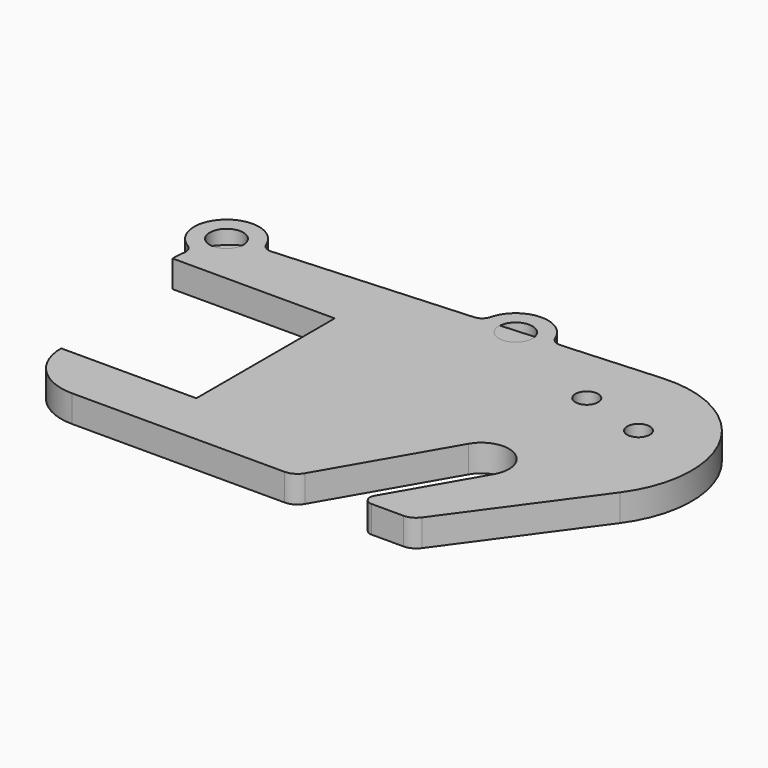
from build123d import *

# Parameters (mm, degrees)
F0_R     = 2.1
F1_DEPTH = 5
F2_R     = 3.1
F2_R_2   = 2.1
F3_DEPTH = 5


with BuildPart() as f1:
    # F0 (on Top) → F1 (new body)
    with BuildSketch(Plane.XY):
        with BuildLine():
            Line((-55, 17), (-25, 17))
            Line((-25, 17), (-25, -15))
            Line((-25, -15), (-50, -15))
            ThreePointArc((-50, -15), (-47.071068, -22.071068), (-40, -25))
            Line((-40, -25), (-0.687644, -25))
            ThreePointArc((-0.687644, -25), (0.812356, -24.598076), (1.910432, -23.5))
            Line((1.910432, -23.5), (14.58327, -1.55))
            ThreePointArc((14.58327, -1.55), (21.55, 0.31673), (23.41673, -6.65))
            Line((23.41673, -6.65), (14.12139, -22.75))
            ThreePointArc((14.12139, -22.75), (14.12139, -24.25), (15.420428, -25))
            Line((15.420428, -25), (21.294605, -25))
            ThreePointArc((21.294605, -25), (22.65599, -24.673318), (23.720882, -23.764421))
            Line((23.720882, -23.764421), (41.175178, 0.237193))
            ThreePointArc((41.175178, 0.237193), (42.52786, 21.631933), (23.742581, 31.960433))
            Line((23.742581, 31.960433), (-45.628709, 27.59035))
            ThreePointArc((-45.628709, 27.59035), (-52.289962, 24.45531), (-55, 17.610133))
            Line((-55, 17.610133), (-55, 17))
        make_face()
        with Locations((31.182091, 17)):
            Circle(F0_R, mode=Mode.SUBTRACT)
        with Locations((19, 20.264181)):
            Circle(F0_R, mode=Mode.SUBTRACT)
    extrude(amount=F1_DEPTH)


with BuildPart() as f3:
    # F2 (on Top) → F3 (new body)
    with BuildSketch(Plane.XY):
        with BuildLine():
            Line((-55, 17), (-25, 17))
            Line((-25, 17), (-25, -15))
            Line((-25, -15), (-50, -15))
            ThreePointArc((-50, -15), (-47.071068, -22.071068), (-40, -25))
            Line((-40, -25), (-0.687644, -25))
            ThreePointArc((-0.687644, -25), (0.812356, -24.598076), (1.910432, -23.5))
            Line((1.910432, -23.5), (14.58327, -1.55))
            ThreePointArc((14.58327, -1.55), (21.55, 0.31673), (23.41673, -6.65))
            Line((23.41673, -6.65), (14.12139, -22.75))
            ThreePointArc((14.12139, -22.75), (14.12139, -24.25), (15.420428, -25))
            Line((15.420428, -25), (21.294605, -25))
            ThreePointArc((21.294605, -25), (22.65599, -24.673318), (23.720882, -23.764421))
            Line((23.720882, -23.764421), (41.175178, 0.237193))
            ThreePointArc((41.175178, 0.237193), (42.52786, 21.631933), (23.742581, 31.960433))
            Line((23.742581, 31.960433), (5.704582, 30.824119))
            ThreePointArc((5.704582, 30.824119), (4.503784, 31.133671), (3.716274, 32.091569))
            ThreePointArc((3.716274, 32.091569), (-2.248649, 35.893919), (-7.689248, 31.373072))
            ThreePointArc((-7.689248, 31.373072), (-8.350322, 30.32392), (-9.502781, 29.866123))
            Line((-9.502781, 29.866123), (-45.194523, 27.617702))
            ThreePointArc((-45.194523, 27.617702), (-46.395321, 27.927253), (-47.182831, 28.885151))
            ThreePointArc((-47.182831, 28.885151), (-56.671805, 31.257884), (-55.793083, 21.516306))
            ThreePointArc((-55.793083, 21.516306), (-54.982795, 20.622631), (-54.833835, 19.425537))
            ThreePointArc((-54.833835, 19.425537), (-54.958372, 18.52163), (-55, 17.610133))
            Line((-55, 17.610133), (-55, 17))
        make_face()
        with Locations((-52.770528, 26.699371)):
            Circle(F2_R, mode=Mode.SUBTRACT)
        with Locations((19, 20.264181)):
            Circle(F2_R_2, mode=Mode.SUBTRACT)
        with Locations((31.182091, 17)):
            Circle(F2_R_2, mode=Mode.SUBTRACT)
        with Locations((-1.871423, 29.905789)):
            Circle(F2_R, mode=Mode.SUBTRACT)
    extrude(amount=F3_DEPTH)


solid = Compound([f1.part, f3.part])
